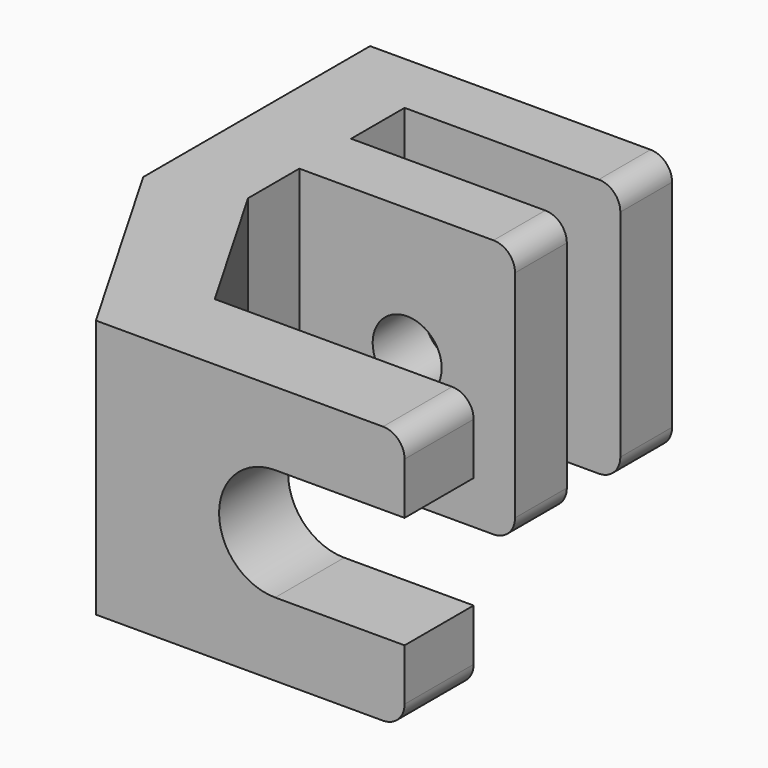
from build123d import *

# Parameters (mm, degrees)
PAD_DEPTH       = 12
SKETCH001_R     = 2.6
POCKET_DEPTH    = 4
SKETCH002_R     = 1.6
POCKET001_DEPTH = 10
FILLET_R        = 1
SKETCH003_W     = 8
SKETCH003_H     = 5.2
POCKET002_DEPTH = 5


with BuildPart() as part:
    # Sketch → Pad (new body)
    with BuildSketch(Plane.XY):
        Polygon((-4, 9.1), (10, 9.1), (10, 6.1), (0, 6.1), (0, 3), (10, 3), (10, 0), (0, 0), (0, -2.971797), (4, -9.9), (16, -9.9), (16, -13.9), (1.690599, -13.9), (-4, -4.043594), align=None)
    extrude(amount=PAD_DEPTH)

    # Sketch001 (on Face13 of Pad) → Pocket (cut)
    with BuildSketch(Plane.XZ.offset(13.9)):
        with Locations((10, 6)):
            Circle(SKETCH001_R)
    extrude(amount=-POCKET_DEPTH, mode=Mode.SUBTRACT)

    # Sketch002 (on Face2 of Pocket) → Pocket001 (cut)
    with BuildSketch(Plane(origin=(0, 9.1, 0), x_dir=(-1, 0, 0), z_dir=(0, 1, 0))):
        with Locations((-5, 6)):
            Circle(SKETCH002_R)
    extrude(amount=-POCKET001_DEPTH, mode=Mode.SUBTRACT)

    # Fillet
    fillet_edges = [part.edges().sort_by_distance(p)[0] for p in [
        (10, 1.5, 12),
        (10, 7.6, 12),
        (10, 7.6, 0),
        (10, 1.5, 0),
        (16, -11.9, 12),
        (16, -11.9, 0),
    ]]
    fillet(fillet_edges, radius=FILLET_R)

    # Sketch003 (on Face16 of Fillet) → Pocket002 (cut)
    with BuildSketch(Plane(origin=(0, -9.9, 0), x_dir=(-1, 0, 0), z_dir=(0, 1, 0))):
        with Locations((-14, 6)):
            Rectangle(SKETCH003_W, SKETCH003_H)
    extrude(amount=-POCKET002_DEPTH, mode=Mode.SUBTRACT)


solid = part.part
